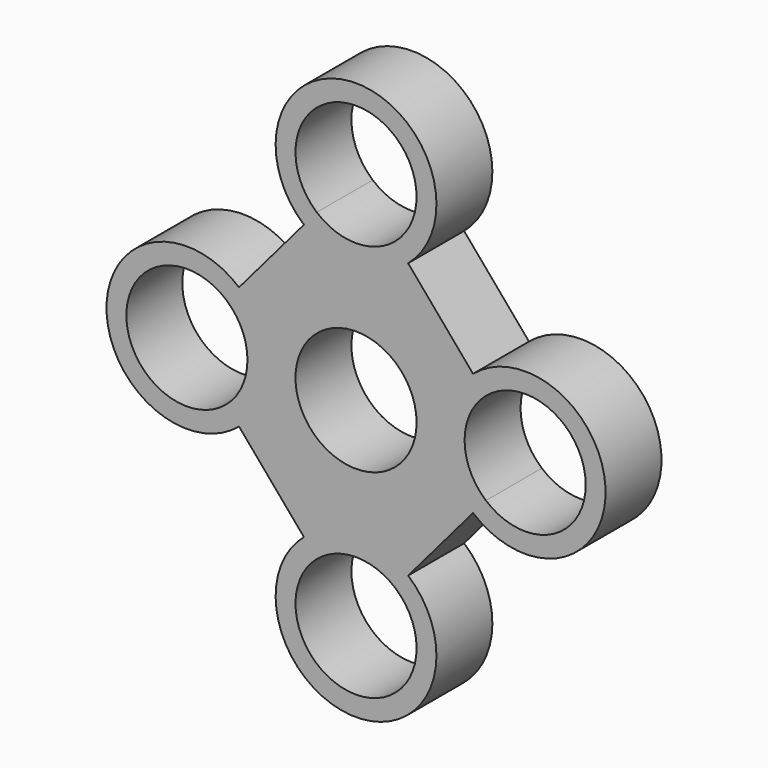
from build123d import *

# Parameters (mm, degrees)
F0_R     = 10.9982
F1_DEPTH = 12.7


with BuildPart() as f1:
    # F0 (on Front) → F1 (new body)
    with BuildSketch(Plane.XZ):
        with BuildLine():
            ThreePointArc((10.9982, 36.093502), (9.983969, 31.480394), (7.128336, 27.718108))
            Line((7.128336, 27.718108), (9.466034, 24.971442))
            ThreePointArc((9.466034, 24.971442), (0, 50.698502), (-9.466034, 24.971442))
            Line((-9.466034, 24.971442), (-7.128336, 27.718108))
            ThreePointArc((-7.128336, 27.718108), (-4.613109, 46.077471), (10.9982, 36.093502))
        make_face()
        with BuildLine():
            Line((9.466034, 24.971442), (7.128336, 27.718108))
            ThreePointArc((7.128336, 27.718108), (0, 25.095302), (-7.128336, 27.718108))
            Line((-7.128336, 27.718108), (-9.466034, 24.971442))
            Line((-9.466034, 24.971442), (-21.253305, 11.12206))
            Line((-21.253305, 11.12206), (-23.591004, 8.375395))
            ThreePointArc((-23.591004, 8.375395), (-20.735371, 4.613109), (-19.72114, 0))
            ThreePointArc((-19.72114, 0), (-20.735371, -4.613109), (-23.591004, -8.375395))
            Line((-23.591004, -8.375395), (-21.253305, -11.12206))
            Line((-21.253305, -11.12206), (-9.466034, -24.971442))
            Line((-9.466034, -24.971442), (-7.128336, -27.718108))
            ThreePointArc((-7.128336, -27.718108), (0, -25.095302), (7.128336, -27.718108))
            Line((7.128336, -27.718108), (9.466034, -24.971442))
            Line((9.466034, -24.971442), (21.253305, -11.12206))
            Line((21.253305, -11.12206), (23.591004, -8.375395))
            ThreePointArc((23.591004, -8.375395), (19.72114, 0), (23.591004, 8.375395))
            Line((23.591004, 8.375395), (21.253305, 11.12206))
            Line((21.253305, 11.12206), (9.466034, 24.971442))
        make_face()
        Circle(F0_R, mode=Mode.SUBTRACT)
        with BuildLine():
            ThreePointArc((21.253305, -11.12206), (45.32434, 0), (21.253305, 11.12206))
            Line((21.253305, 11.12206), (23.591004, 8.375395))
            ThreePointArc((23.591004, 8.375395), (35.332448, 9.983969), (41.71754, 0))
            ThreePointArc((41.71754, 0), (35.332448, -9.983969), (23.591004, -8.375395))
            Line((23.591004, -8.375395), (21.253305, -11.12206))
        make_face()
        with BuildLine():
            Line((-23.591004, 8.375395), (-21.253305, 11.12206))
            ThreePointArc((-21.253305, 11.12206), (-45.32434, 0), (-21.253305, -11.12206))
            Line((-21.253305, -11.12206), (-23.591004, -8.375395))
            ThreePointArc((-23.591004, -8.375395), (-41.71754, 0), (-23.591004, 8.375395))
        make_face()
        with BuildLine():
            ThreePointArc((-9.466034, -24.971442), (0, -50.698502), (9.466034, -24.971442))
            Line((9.466034, -24.971442), (7.128336, -27.718108))
            ThreePointArc((7.128336, -27.718108), (9.983969, -31.480394), (10.9982, -36.093502))
            ThreePointArc((10.9982, -36.093502), (-4.613109, -46.077471), (-7.128336, -27.718108))
            Line((-7.128336, -27.718108), (-9.466034, -24.971442))
        make_face()
    extrude(amount=F1_DEPTH)


solid = f1.part
